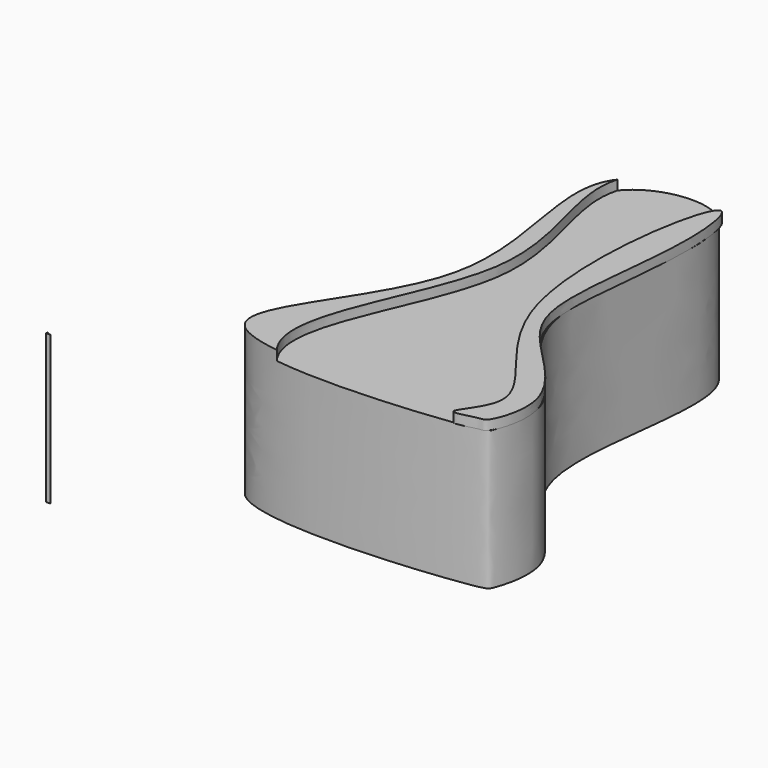
from build123d import *

# Parameters (mm, degrees)
F0_W     = 131.2479265034
F0_H     = 141.1013826728
F1_DEPTH = 39.116
F3_DEPTH = 77.724
F5_DEPTH = 2.54
F7_DEPTH = 2.54


with BuildPart() as f1:
    # F0 (on Top) → F1 (new body)
    with BuildSketch(Plane.XY):
        with Locations((7.9812910408, -2.2662915289)):
            Rectangle(F0_W, F0_H)
    extrude(amount=F1_DEPTH)

    # F2 (on face) → F3 (cut)
    with BuildSketch(Plane.XY.offset(39.116)):
        with BuildLine():
            add(Edge.make_bspline(
                [(-63.3576735854, -34.1914668679), (-61.9877077124, -51.995784906), (-75.2286651192, -83.0951251376), (18.0924964112, -67.9108788223), (94.8852537066, -111.0294927939), (125.437439942, 128.8477036811), (-112.3399331074, 91.3331388173), (-65.6513393188, -4.3825825773), (-63.3576735854, -34.1914668679)],
                knots=[0, 0, 0, 0, 0.1056801964, 0.2569791657, 0.3961757111, 0.6139319583, 0.8230649027, 1, 1, 1, 1], degree=3))
        make_face()
        with BuildLine():
            add(Edge.make_bspline(
                [(-9.1637065634, 53.3071532845), (-9.2939902801, 53.156645716), (-9.3910179835, 53.0038147535), (-9.4567163775, 52.8498060446)],
                knots=[0, 0, 0, 0, 0.017960805, 0.017960805, 0.017960805, 0.017960805], degree=3))
            add(Edge.make_bspline(
                [(16.0611197352, 56.4602613449), (10.419252029, 62.9796246018), (-4.097858638, 60.81503393), (-9.1637065634, 53.3071532845)],
                knots=[0.891645279, 0.891645279, 0.891645279, 0.891645279, 1, 1, 1, 1], degree=3))
            add(Edge.make_bspline(
                [(16.1819024558, 56.3177410024), (16.1476260276, 56.3668225549), (16.1074181951, 56.4143602299), (16.0611197427, 56.4602613375)],
                knots=[0.5877341562, 0.5877341562, 0.5877341562, 0.5877341562, 0.595316907, 0.595316907, 0.595316907, 0.595316907], degree=3))
            add(Edge.make_bspline(
                [(-9.4567163775, 52.8498060446), (-16.1576897636, 41.8249299131), (7.5880911694, -0.9603787102), (-58.8876107125, -57.6104078252), (36.4167605493, -47.5548074199), (38.1526389038, -45.495257317), (43.9376377856, -25.6654295424), (4.1062019071, -5.7529832902), (24.3616793897, 46.4618497973), (16.1819024558, 56.3177410024)],
                knots=[0.0021694173, 0.0021694173, 0.0021694173, 0.0021694173, 0.1569072969, 0.3065873022, 0.477023362, 0.5175303973, 0.5996323852, 0.7301326598, 0.8908631951, 0.8908631951, 0.8908631951, 0.8908631951], degree=3))
        make_face(mode=Mode.SUBTRACT)
    extrude(amount=-F3_DEPTH, mode=Mode.SUBTRACT)

    # F4 (on face) → F5 (cut)
    with BuildSketch(Plane.XY.offset(39.116)):
        with BuildLine():
            add(Edge.make_bspline(
                [(-8.6814766821, 53.9699824542), (-11.9496633383, 42.1821018773), (10.6243972936, 9.2374607764), (-49.3499629019, -63.7433277916), (113.0926941991, -66.8797019383), (29.2646139705, 84.9267987452), (-5.9962659216, 63.6551525802), (-8.6814766821, 53.9699824542)],
                knots=[0, 0, 0, 0, 0.1698469976, 0.36338122, 0.5904301991, 0.8604501414, 1, 1, 1, 1], degree=3))
        make_face()
    extrude(amount=-F5_DEPTH, mode=Mode.SUBTRACT)

    # F6 (on face) → F7 (join)
    with BuildSketch(Plane.XY.offset(36.576)):
        with BuildLine():
            add(Edge.make_bspline(
                [(29.4865755245, -47.6944218639), (28.7673300467, -46.8291256471), (42.7814774911, -34.0218608063), (1.7144037525, -8.8673161772), (15.3295965605, 70.5864552549), (21.3233460785, 39.9006295895), (13.9734750456, 3.0763278056), (22.6407553056, -12.8499573547), (43.8033639166, -30.3351765782), (37.6809324041, -47.1265513229), (35.6144910104, -46.3574041686), (30.0212910079, -48.3377172328), (29.4865755245, -47.6944218639)],
                knots=[0, 0, 0, 0, 0.0739076431, 0.220773752, 0.393505502, 0.4760796631, 0.619564769, 0.7153191728, 0.8301799684, 0.9128217592, 0.9450541403, 1, 1, 1, 1], degree=3))
        make_face()
    extrude(amount=F7_DEPTH)


solid = f1.part
